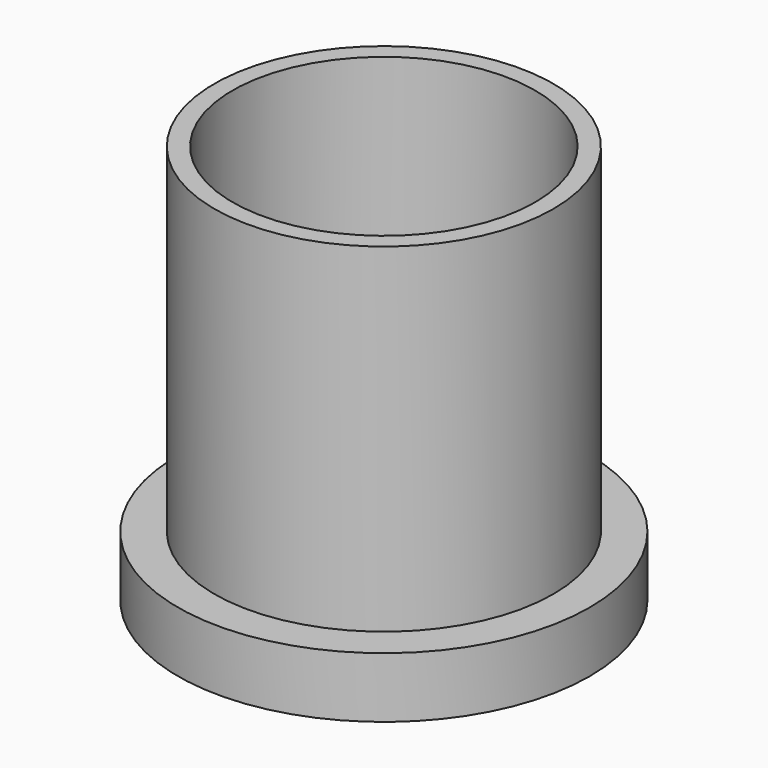
from build123d import *

# Parameters (mm, degrees)
CYLINDER093_R     = 1.5
CYLINDER093_DEPTH = 14
CYLINDER090_R     = 12.5
CYLINDER090_DEPTH = 33
CYLINDER094_R     = 1.5
CYLINDER094_DEPTH = 14
CYLINDER088_R     = 14
CYLINDER088_DEPTH = 33
BOX016_W          = 1
BOX016_H          = 1
BOX016_DEPTH      = 1
CYLINDER084_R     = 17
CYLINDER084_DEPTH = 5


with BuildPart() as obj1:
    # Cylinder093 → Cylinder093 (new body)
    with BuildSketch(Plane(origin=(53.66, 148, -15), x_dir=(1, 0, 0), z_dir=(0, 0, 1))):
        Circle(CYLINDER093_R)
    extrude(amount=CYLINDER093_DEPTH)


with BuildPart() as obj2:
    # Cylinder090 → Cylinder090 (new body)
    with BuildSketch(Plane(origin=(73.66, 148, -10), x_dir=(1, 0, 0), z_dir=(0, 0, 1))):
        Circle(CYLINDER090_R)
    extrude(amount=CYLINDER090_DEPTH)


with BuildPart() as fusion039:
    # Cylinder094 → Cylinder094 (new body)
    with BuildSketch(Plane(origin=(93.66, 148, -14), x_dir=(1, 0, 0), z_dir=(0, 0, 1))):
        Circle(CYLINDER094_R)
    extrude(amount=CYLINDER094_DEPTH)

    # Fusion039: union obj1, obj2
    add(obj1.part)
    add(obj2.part)


with BuildPart() as obj3:
    # Cylinder088 → Cylinder088 (new body)
    with BuildSketch(Plane(origin=(73.66, 148, -10), x_dir=(1, 0, 0), z_dir=(0, 0, 1))):
        Circle(CYLINDER088_R)
    extrude(amount=CYLINDER088_DEPTH)


with BuildPart() as obj4:
    # Box016 → Box016 (new body)
    with BuildSketch(Plane(origin=(63, 136, -8), x_dir=(1, 0, 0), z_dir=(0, 0, 1))):
        with Locations((0.5, 0.5)):
            Rectangle(BOX016_W, BOX016_H)
    extrude(amount=BOX016_DEPTH)


with BuildPart() as obj5:
    # Cylinder084 → Cylinder084 (new body)
    with BuildSketch(Plane(origin=(73.66, 148, -10), x_dir=(1, 0, 0), z_dir=(0, 0, 1))):
        Circle(CYLINDER084_R)
    extrude(amount=CYLINDER084_DEPTH)

    # Fusion038: union obj3, obj4
    add(obj3.part)
    add(obj4.part)

    # Cut010: cut Fusion039
    add(fusion039.part, mode=Mode.SUBTRACT)


with BuildPart() as obj5_1:
    # Cut010 placement: moved
    add(obj5.part.moved(Location((-73.66, -148, -23))))


solid = obj5_1.part
